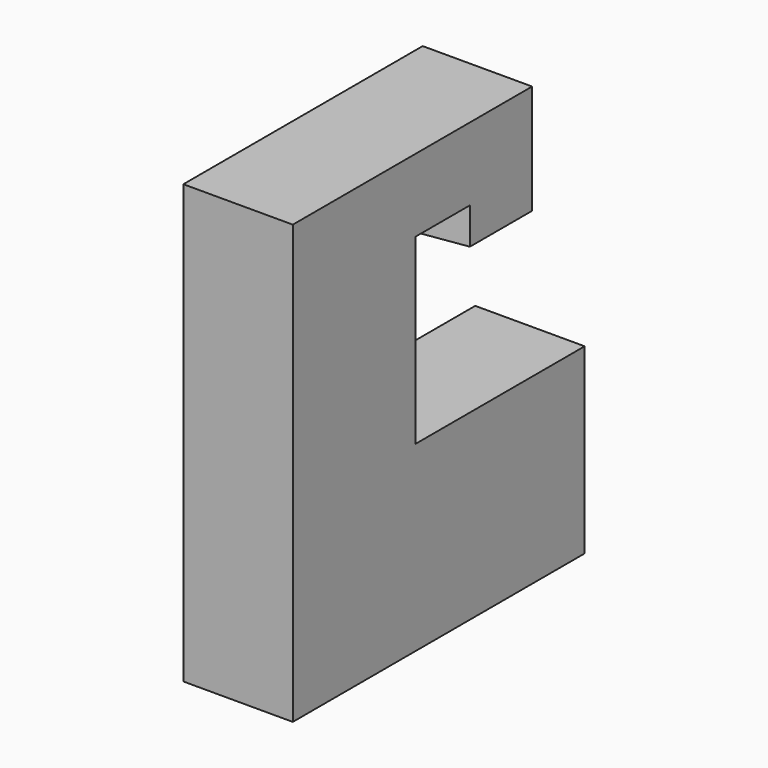
from build123d import *

# Parameters (mm, degrees)
F0_W     = 3
F0_H     = 10
F1_DEPTH = 5
F2_W     = 3
F2_H     = 4.2
F3_DEPTH = 7
F4_W     = 3
F4_H     = 2
F5_DEPTH = 4
F7_DEPTH = 1


with BuildPart() as f1:
    # F0 (on Top) → F1 (new body)
    with BuildSketch(Plane.XY):
        Rectangle(F0_W, F0_H)
    extrude(amount=F1_DEPTH)

    # F2 (on face) → F3 (join)
    with BuildSketch(Plane.XY.offset(5)):
        with Locations((0, -2.9)):
            Rectangle(F2_W, F2_H)
    extrude(amount=F3_DEPTH)

    # F4 (on face) → F5 (join)
    with BuildSketch(Plane(origin=(0, -0.8, 0), x_dir=(-1, 0, 0), z_dir=(0, 1, 0))):
        with Locations((0, 11)):
            Rectangle(F4_W, F4_H)
    extrude(amount=F5_DEPTH)

    # F6 (on face) → F7 (join)
    with BuildSketch(Plane(origin=(0, 0, 10), x_dir=(1, 0, 0), z_dir=(0, 0, -1))):
        Polygon((1.5, -1.069119), (-1.5, -0.6222), (-1.5, -3.2), (1.5, -3.2), align=None)
    extrude(amount=F7_DEPTH)


solid = f1.part
